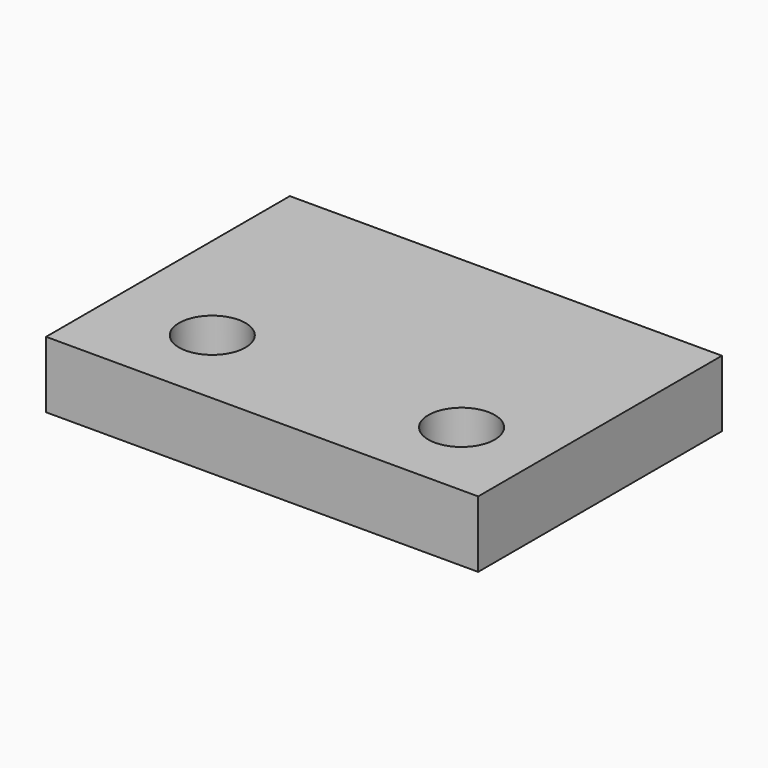
from build123d import *

# Parameters (mm, degrees)
F0_W     = 78
F0_H     = 55
F1_DEPTH = 12
F3_D     = 12
F3_DEPTH = 12


with BuildPart() as f1:
    # F0 (on Top) → F1 (new body)
    with BuildSketch(Plane.XY):
        with Locations((39, -27.5)):
            Rectangle(F0_W, F0_H)
    extrude(amount=F1_DEPTH)

    # F3
    with Locations(Plane.XY.offset(12)):
        with Locations((18, -40), (63, -40)):
            Hole(F3_D / 2, depth=F3_DEPTH)


solid = f1.part
